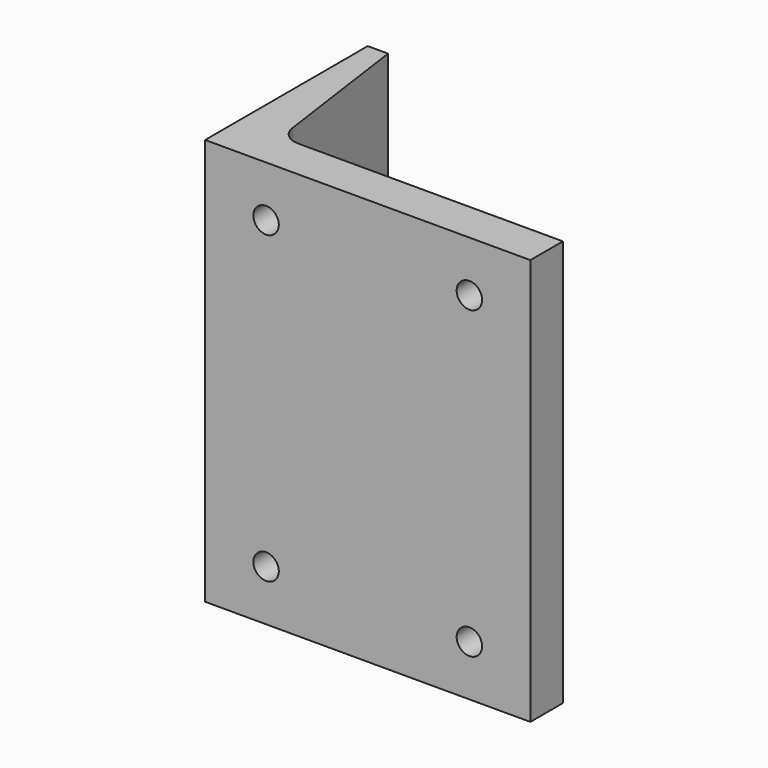
from build123d import *

# Parameters (mm, degrees)
F1_DEPTH = 127
F3_D     = 7.9375
F3_DEPTH = 17.4625
F3_TIP   = 2.3846655818


with BuildPart() as f1:
    # F0 (on Top) → F1 (new body)
    with BuildSketch(Plane.XY):
        with BuildLine():
            Line((0, 63.5), (0, 0))
            Line((0, 0), (101.6, 0))
            Line((101.6, 0), (101.6, 12.7))
            Line((101.6, 12.7), (18.9886001237, 12.7))
            ThreePointArc((18.9886001237, 12.7), (14.8215448282, 14.2585336102), (12.7, 18.1690865624))
            Line((12.7, 18.1690865624), (6.35, 63.5))
            Line((6.35, 63.5), (0, 63.5))
        make_face()
    extrude(amount=F1_DEPTH)

    # F3
    with Locations(Plane.XZ):
        with Locations((19.05, 111.125), (82.55, 111.125), (82.55, 15.875), (19.05, 15.875)):
            Hole(F3_D / 2, depth=F3_DEPTH)
            with Locations((0, 0, -(F3_DEPTH + F3_TIP / 2))):  # 118° drill point
                Cone(0, F3_D / 2, F3_TIP, mode=Mode.SUBTRACT)


solid = f1.part
